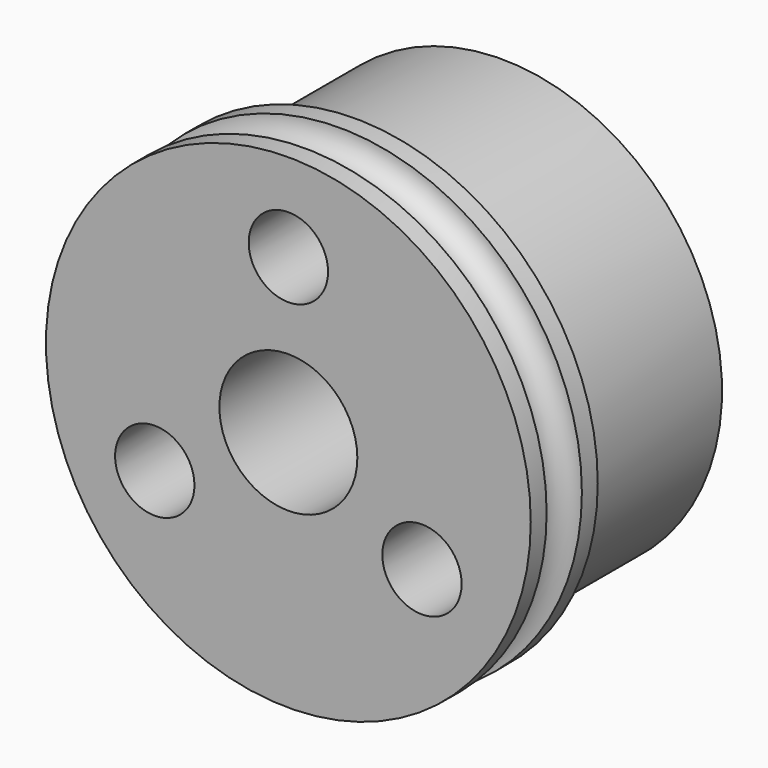
from build123d import *

# Parameters (mm, degrees)
F0_R           = 13.97
F0_R_2         = 3.9751
F1_DEPTH       = 15.367
F3_D           = 2.9464
F3_CBORE_D     = 4.572
F3_CBORE_DEPTH = 6.35
F4_R           = 6.4135
F4_R_2         = 3.9751
F5_DEPTH       = 2.54
F6_R           = 1.27
F8_R           = 13.97
F8_R_2         = 12.7
F9_DEPTH       = 10.541


with BuildPart() as f1:
    # F0 (on Front) → F1 (new body)
    with BuildSketch(Plane.XZ):
        Circle(F0_R)
        Circle(F0_R_2, mode=Mode.SUBTRACT)
    extrude(amount=F1_DEPTH)

    # F3 (through all)
    with Locations(Plane.XZ.offset(15.367)):
        with Locations((0, 8.89), (-7.6989658396, -4.445), (7.6989658396, -4.445)):
            CounterBoreHole(F3_D / 2, F3_CBORE_D / 2, F3_CBORE_DEPTH)

    # F4 (on face) → F5 (cut)
    with BuildSketch(Plane(origin=(0, 0, 0), x_dir=(-1, 0, 0), z_dir=(0, 1, 0))):
        Circle(F4_R)
        Circle(F4_R_2, mode=Mode.SUBTRACT)
    extrude(amount=-F5_DEPTH, mode=Mode.SUBTRACT)

    # F7: sweep along a path in F7_path
    with BuildLine(Plane(origin=(13.97, -15.367, 0), x_dir=(0, 0, -1), z_dir=(0, 1, 0))) as f7_path:
        CenterArc((0, 13.97), 13.97, 0, 360)
    # F6 (on Right) → F7 (sweep, cut)
    with BuildSketch(Plane.YZ):
        with Locations((-12.954, 13.97)):
            Circle(F6_R)
    sweep(path=f7_path.line, mode=Mode.SUBTRACT)

    # F8 (on face) → F9 (cut)
    with BuildSketch(Plane(origin=(0, 0, 0), x_dir=(-1, 0, 0), z_dir=(0, 1, 0))):
        Circle(F8_R)
        Circle(F8_R_2, mode=Mode.SUBTRACT)
    extrude(amount=-F9_DEPTH, mode=Mode.SUBTRACT)


solid = f1.part
